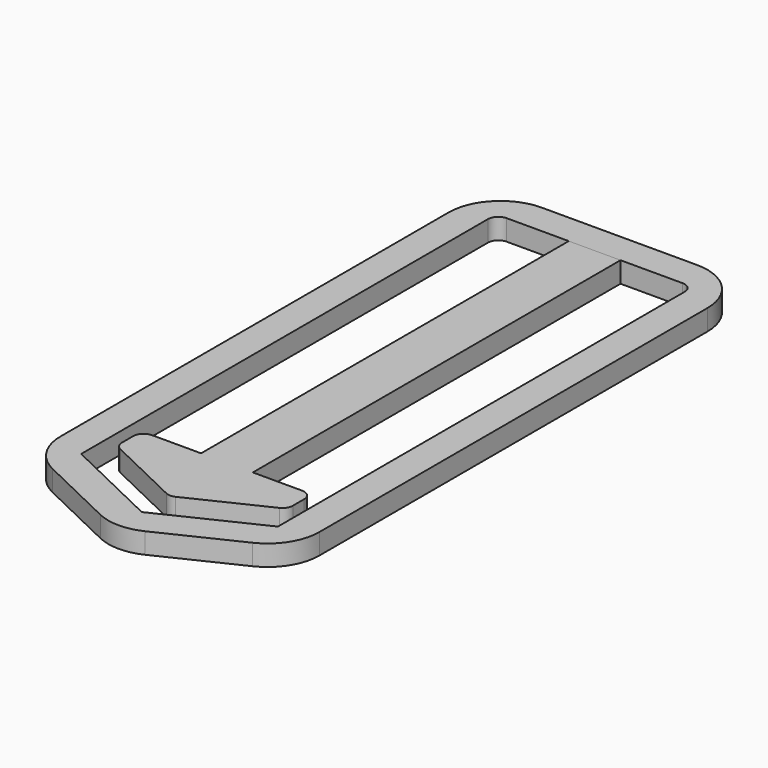
from build123d import *

# Parameters (mm, degrees)
F1_DEPTH = 2
F3_DEPTH = 2.001
F5_DEPTH = 2
F6_R     = 5
F7_R     = 1
F7_2_R   = 1


with BuildPart() as f1:
    # F0 (on Top) → F1 (new body)
    with BuildSketch(Plane.XY):
        Polygon((25, 0), (0, 0), (0, -55), (12.5, -61), (25, -55), align=None)
    extrude(amount=F1_DEPTH)

    # F2 (on face) → F3 (cut, through all)
    with BuildSketch(Plane.XY.offset(2)):
        Polygon((22, -53.112298), (22, -3), (3, -3), (3, -53.112298), (12.5, -57.672298), align=None)
    extrude(amount=-F3_DEPTH, mode=Mode.SUBTRACT)

    # F6
    f6_edges = [f1.edges().sort_by_distance(p)[0] for p in [
        (0, 0, 1),
        (25, 0, 1),
        (25, -55, 1),
        (12.5, -61, 1),
        (0, -55, 1),
    ]]
    fillet(f6_edges, radius=F6_R)

    # F7
    f7_edges = [f1.edges().sort_by_distance(p)[0] for p in [
        (3, -3, 1),
        (22, -3, 1),
    ]]
    fillet(f7_edges, radius=F7_R)


with BuildPart() as f5:
    # F4 (on face) → F5 (new body, through all)
    with BuildSketch(Plane.XY.offset(2)):
        Polygon((15, -3), (10, -3), (10, -47.384596), (4.25, -47.384596), (4.25, -50.384596), (12.5, -54.344596), (20.75, -50.384596), (20.75, -47.384596), (15, -47.384596), align=None)
    extrude(amount=-F5_DEPTH)

    # F7#2
    f7_2_edges = [f5.edges().sort_by_distance(p)[0] for p in [
        (20.75, -47.384596, 1),
        (20.75, -50.384596, 1),
        (12.5, -54.344596, 1),
        (4.25, -50.384596, 1),
        (4.25, -47.384596, 1),
    ]]
    fillet(f7_2_edges, radius=F7_2_R)


solid = Compound([f1.part, f5.part])
